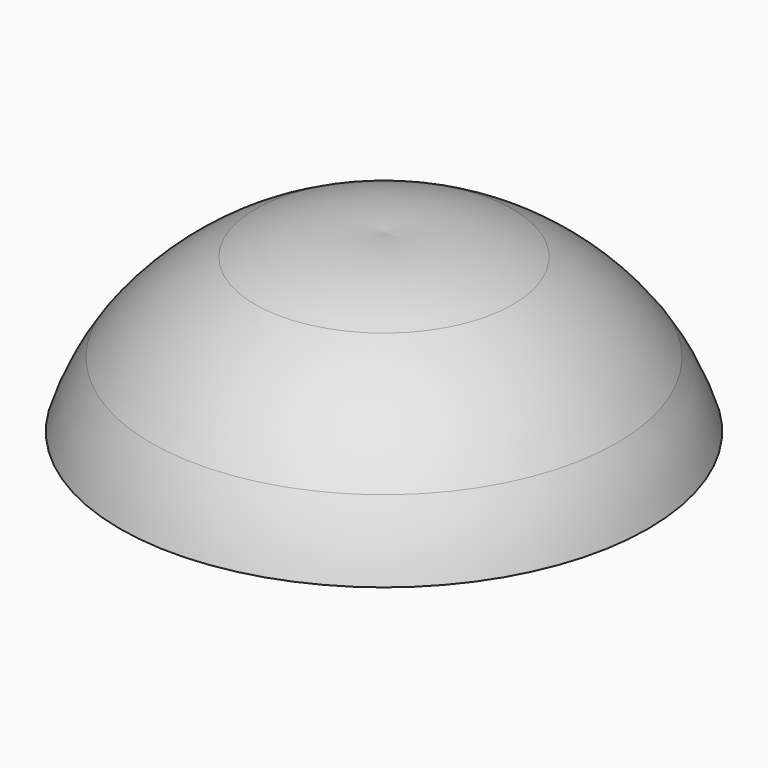
from build123d import *


with BuildPart() as f1:
    # F0 (on Front) → F1 (revolve)
    with BuildSketch(Plane.XZ):
        with BuildLine():
            Line((0, 79.693899), (0, 72.532065))
            ThreePointArc((0, 72.532065), (36.458212, 63.83231), (59.528653, 34.2918))
            Line((59.528653, 34.2918), (68.398818, 34.2918))
            ThreePointArc((68.398818, 34.2918), (64.948401, 43.034002), (60.276915, 51.189288))
            ThreePointArc((60.276915, 51.189288), (48.281032, 64.307562), (33.402709, 74.035142))
            ThreePointArc((33.402709, 74.035142), (17.075325, 79.072011), (0, 79.693899))
        make_face()
    revolve(axis=Axis((0, 0, 39.846949), (0, 0, 1)))


solid = f1.part
